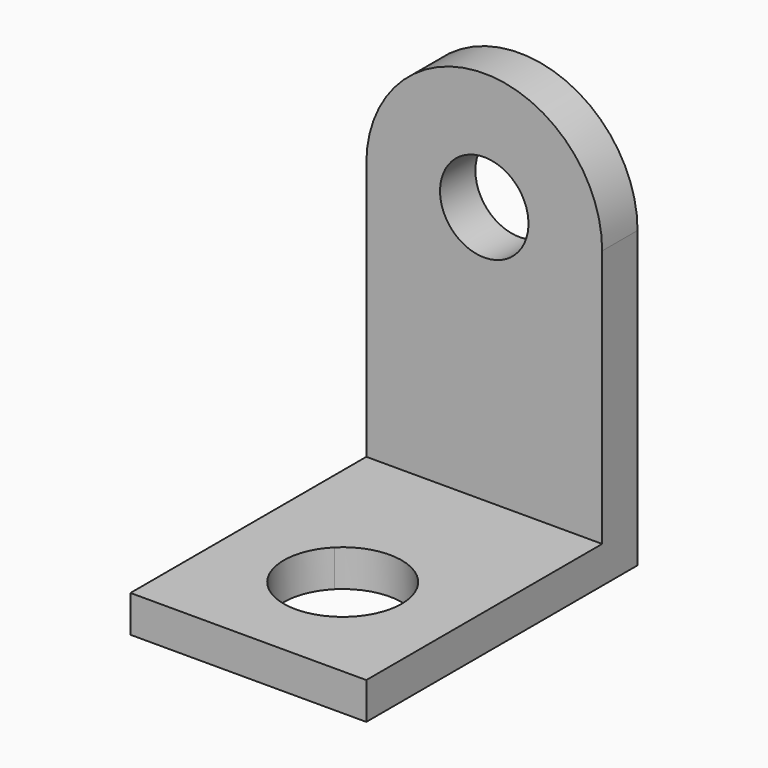
from build123d import *

# Parameters (mm, degrees)
F0_W     = 8
F0_H     = 1.25
F1_DEPTH = 1.5
F2_DEPTH = 10
F4_DEPTH = 1.25


with BuildPart() as f1:
    # F0 (on Front) → F1 (new body)
    with BuildSketch(Plane.XZ):
        with BuildLine():
            Line((4, 5), (1.5, 5))
            ThreePointArc((1.5, 5), (0, 3.5), (-1.5, 5))
            Line((-1.5, 5), (-4, 5))
            Line((-4, 5), (-4, -3.75))
            Line((-4, -3.75), (4, -3.75))
            Line((4, -3.75), (4, 5))
        make_face()
        with Locations((0, -4.375)):
            Rectangle(F0_W, F0_H)
        with BuildLine():
            ThreePointArc((-1.5, 5), (0, 6.5), (1.5, 5))
            Line((1.5, 5), (4, 5))
            ThreePointArc((4, 5), (0, 9), (-4, 5))
            Line((-4, 5), (-1.5, 5))
        make_face()
    extrude(amount=-F1_DEPTH)

    # F0 (on Front) → F2 (join)
    with BuildSketch(Plane.XZ):
        with Locations((0, -4.375)):
            Rectangle(F0_W, F0_H)
    extrude(amount=F2_DEPTH)

    # F3 (on face) → F4 (cut, through all)
    with BuildSketch(Plane.XY.offset(-3.75)):
        with BuildLine():
            Line((1.414214, -7.414214), (-1.414214, -4.585786))
            ThreePointArc((-1.414214, -4.585786), (-1.414214, -7.414214), (1.414214, -7.414214))
        make_face()
        with BuildLine():
            ThreePointArc((1.414214, -7.414214), (1.847759, -6.765367), (2, -6))
            ThreePointArc((2, -6), (0.765367, -4.152241), (-1.414214, -4.585786))
            Line((-1.414214, -4.585786), (1.414214, -7.414214))
        make_face()
    extrude(amount=-F4_DEPTH, mode=Mode.SUBTRACT)


solid = f1.part
